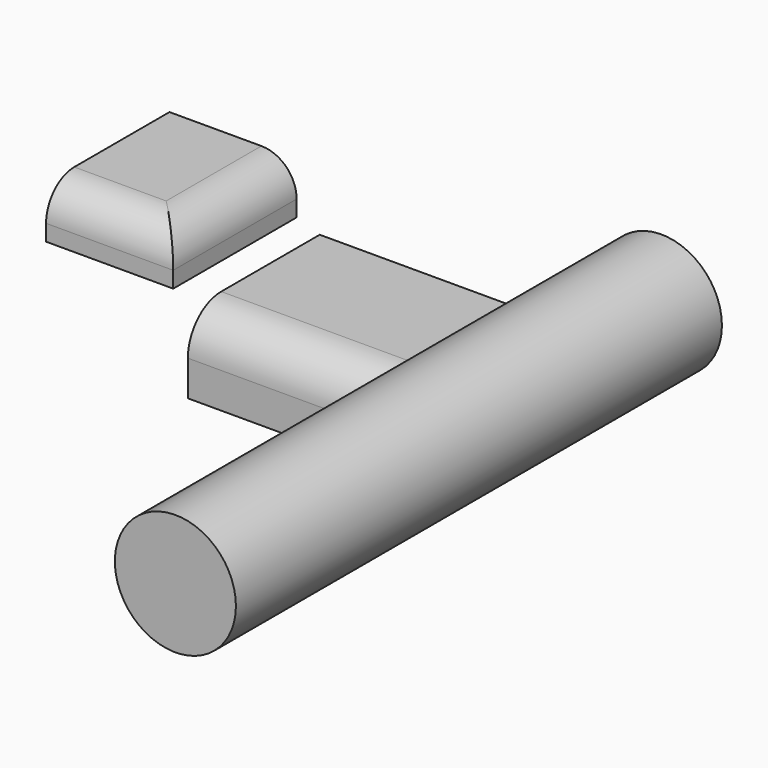
from build123d import *

# Parameters (mm, degrees)
F0_W     = 185.058508
F0_H     = 55.5571
F1_DEPTH = 118.872
F2_R     = 30.047302
F3_R     = 5.08
F4_W     = 91.687955
F4_H     = 37.088386
F5_DEPTH = 111.252
F6_R     = 43.653388
F7_DEPTH = 438.15
F8_R     = 25.4


with BuildPart() as f1:
    # F0 (on Front) → F1 (new body)
    with BuildSketch(Plane.XZ):
        with Locations((33.721773, 16.314493)):
            Rectangle(F0_W, F0_H)
    extrude(amount=F1_DEPTH)

    # F2
    f2_edges = [f1.edges().sort_by_distance(p)[0] for p in [
        (33.721773, -118.872, 44.093043),
    ]]
    fillet(f2_edges, radius=F2_R)

    # F3
    f3_edges = [f1.edges().sort_by_distance(p)[0] for p in [
        (126.251027, -44.412349, 44.093043),
    ]]
    fillet(f3_edges, radius=F3_R)


with BuildPart() as f5:
    # F4 (on Front) → F5 (new body)
    with BuildSketch(Plane.XZ):
        with Locations((-121.315491, 68.183232)):
            Rectangle(F4_W, F4_H)
    extrude(amount=F5_DEPTH)

    # F8
    f8_edges = [f5.edges().sort_by_distance(p)[0] for p in [
        (-75.471513, -55.626, 86.727425),
        (-121.31549, -111.252, 86.727425),
    ]]
    fillet(f8_edges, radius=F8_R)


with BuildPart() as f7:
    # F6 (on Front) → F7 (new body)
    with BuildSketch(Plane.XZ):
        with Locations((187.610418, 80.782175)):
            Circle(F6_R)
    extrude(amount=F7_DEPTH)


solid = Compound([f1.part, f5.part, f7.part])
